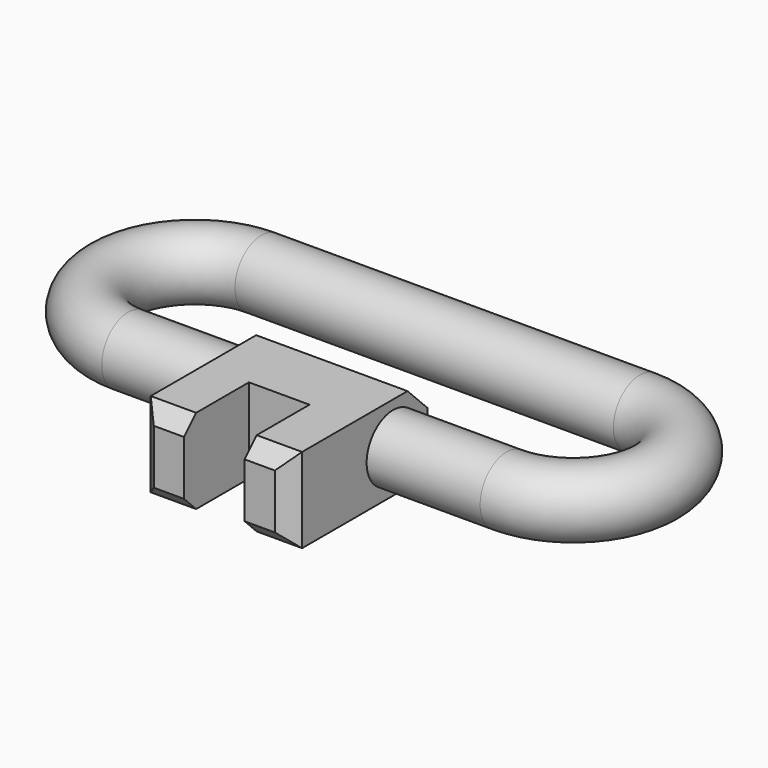
from build123d import *

# Parameters (mm, degrees)
F1_R     = 2.185992
F3_W     = 3
F3_H     = 5.359665
F4_DEPTH = 2.8
F5_SIZE  = 1.65
F6_SIZE  = 1


with BuildPart() as f2:
    # F2: sweep along a path in F0
    with BuildLine(Plane.XY) as f2_path:
        ThreePointArc((0, 0), (5.5, 5.5), (0, 11))
        Line((0, 11), (-25, 11))
        ThreePointArc((-25, 11), (-30.5, 5.5), (-25, 0))
        Line((-25, 0), (0, 0))
    # F1 (on Right) → F2 (sweep)
    with BuildSketch(Plane.YZ):
        Circle(F1_R)
    sweep(path=f2_path.line)

    # F3 (on Top) → F4 (join, symmetric)
    with BuildSketch(Plane.XY):
        Polygon((-7.5, 2.841404), (-17.5, 2.841404), (-17.5, -3.153709), (-14.5, -3.153709), (-10.5, -3.153709), (-7.5, -3.153709), align=None)
        with Locations((-16, -5.833541)):
            Rectangle(F3_W, F3_H)
        with Locations((-9, -5.833541)):
            Rectangle(F3_W, F3_H)
    extrude(amount=F4_DEPTH, both=True)

    # F5
    f5_edges = [f2.edges().sort_by_distance(p)[0] for p in [
        (-12.5, 2.841404, 2.8),
        (-12.5, 2.841404, -2.8),
    ]]
    chamfer(f5_edges, length=F5_SIZE)

    # F6
    f6_edges = [f2.edges().sort_by_distance(p)[0] for p in [
        (-9, -8.513374, -2.8),
        (-7.5, -8.513374, 0),
        (-9, -8.513374, 2.8),
        (-16, -8.513374, -2.8),
        (-17.5, -8.513374, 0),
        (-16, -8.513374, 2.8),
    ]]
    chamfer(f6_edges, length=F6_SIZE)


solid = f2.part
